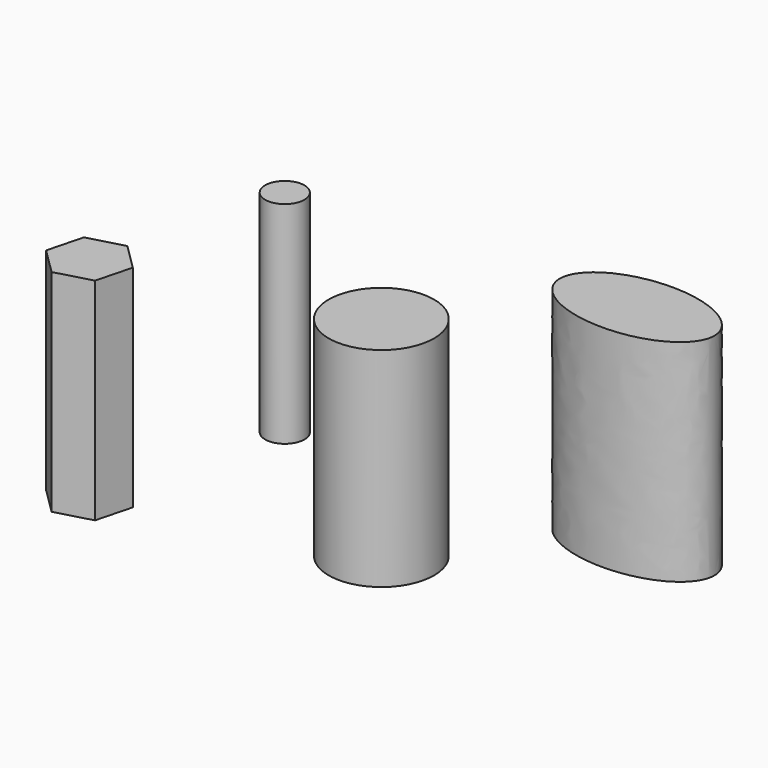
from build123d import *

# Parameters (mm, degrees)
F0_W     = 12.680914
F0_H     = 50.224598
F2_R     = 4.72557
F3_DEPTH = 50.8


with BuildPart() as f1:
    # F0 (on Front) → F1 (revolve)
    with BuildSketch(Plane.XZ):
        with Locations((6.340457, 25.112299)):
            Rectangle(F0_W, F0_H)
    revolve(axis=Axis((0, 0, 25.112299), (0, 0, 1)))


with BuildPart() as f3:
    # F2 (on Top) → F3 (new body)
    with BuildSketch(Plane.XY):
        with BuildLine():
            add(Edge.make_bspline(
                [(53.842854, 32.899547), (53.842854, 51.098089), (25.92673, 41.998818), (-1.989394, 32.899547), (25.92673, 23.800277), (53.842854, 14.701006), (53.842854, 32.899547)],
                knots=[0, 0, 0, 2.094395, 2.094395, 4.18879, 4.18879, 6.283185, 6.283185, 6.283185], degree=2, weights=[1, 0.5, 1, 0.5, 1, 0.5, 1]))
        make_face()
        with Locations((-45.628402, 27.979463)):
            Circle(F2_R)
        Polygon((-51.077659, -22.321124), (-48.837155, -13.73429), (-55.153319, -7.50054), (-63.709987, -9.853624), (-65.950491, -18.440457), (-59.634327, -24.674207), align=None)
    extrude(amount=F3_DEPTH)


solid = Compound([f1.part, f3.part])
